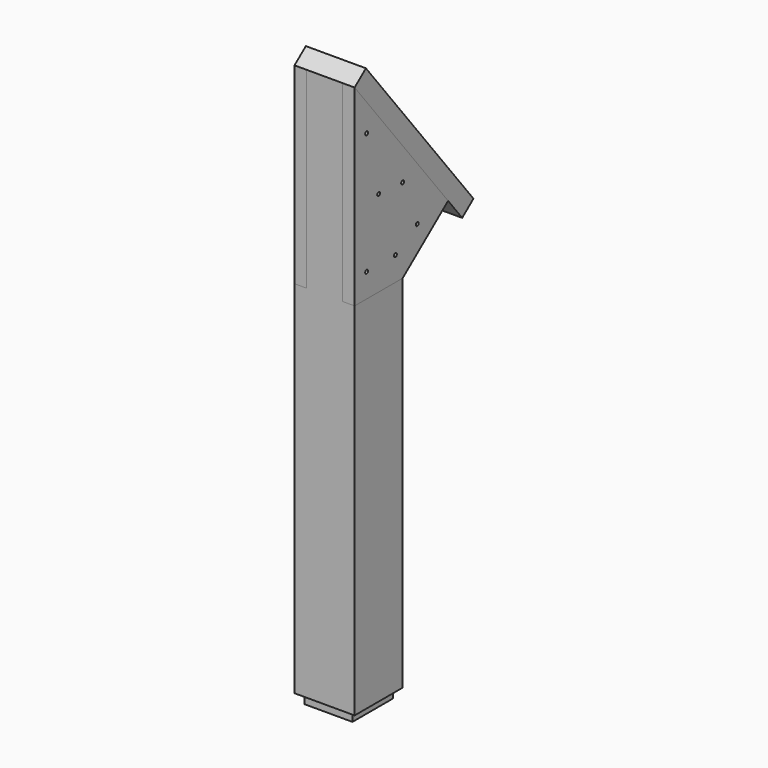
from build123d import *

# Parameters (mm, degrees)
F1_DEPTH  = 20
F2_DEPTH  = 25
F3_DEPTH  = 15
F5_DEPTH  = 30
F7_DEPTH  = 10
F9_DEPTH  = 10
F10_R     = 1.5
F11_DEPTH = 50.001
F12_W     = 30
F12_H     = 80.4300938704
F12_H_2   = 75.9790235959
F13_DEPTH = 15


with BuildPart() as f1:
    # F0 (on Right) → F1 (new body, symmetric)
    with BuildSketch(Plane.YZ):
        Polygon((21, 0), (0, 0), (-21, 0), (-21, -8), (0, -8), (21, -8), align=None)
    extrude(amount=F1_DEPTH, both=True)

    # F0 (on Right) → F2 (join, symmetric)
    with BuildSketch(Plane.YZ):
        Polygon((-21, 0), (0, 0), (21, 0), (25, 0), (25, 300), (-25, 300), (-25, 0), align=None)
    extrude(amount=F2_DEPTH, both=True)

    # F0 (on Right) → F3 (join, symmetric)
    with BuildSketch(Plane.YZ):
        Polygon((-25, 460), (-25, 300), (25, 300), (25, 397), align=None)
    extrude(amount=F3_DEPTH, both=True)


with BuildPart() as f5:
    # F4 (on face) → F5 (new body)
    with BuildSketch(Plane(origin=(-15, 0, 0), x_dir=(0, -1, 0), z_dir=(-1, 0, 0))):
        Polygon((-25, 300), (-25, 397), (-72.2329571804, 337.4864739527), align=None)
    extrude(amount=-F5_DEPTH)


with BuildPart() as f7:
    # F6 (on face) → F7 (new body)
    with BuildSketch(Plane(origin=(-25, 0, 0), x_dir=(0, -1, 0), z_dir=(-1, 0, 0))):
        Polygon((-25, 300), (25, 300), (25, 460), (-25, 397), (-72.2329571804, 337.4864739527), align=None)
    extrude(amount=-F7_DEPTH)


with BuildPart() as f9:
    # F8 (on face) → F9 (new body)
    with BuildSketch(Plane.YZ.offset(25)):
        Polygon((25, 397), (-25, 460), (-25, 300), (25, 300), (72.2329571804, 337.4864739527), align=None)
    extrude(amount=-F9_DEPTH)


with BuildPart() as f11_tool:
    # F10 (on face) → F11 (new body, through all)
    with BuildSketch(Plane(origin=(-25, 0, 0), x_dir=(0, -1, 0), z_dir=(-1, 0, 0))):
        with Locations((-40.192078799, 333.4782421589)):
            Circle(F10_R)
        with Locations((-17.5, 320)):
            Circle(F10_R)
        with Locations((12.5, 320)):
            Circle(F10_R)
        with Locations((0, 371.8319237232)):
            Circle(F10_R)
        with Locations((-24.9607171863, 370.1803386211)):
            Circle(F10_R)
        with Locations((12.5, 421.3922023773)):
            Circle(F10_R)
    extrude(amount=-F11_DEPTH)


with BuildPart() as f1_1:
    add(f1.part)

    # F11: cut by f11_tool
    add(f11_tool.part, mode=Mode.SUBTRACT)


with BuildPart() as f5_1:
    add(f5.part)

    # F11: cut by f11_tool
    add(f11_tool.part, mode=Mode.SUBTRACT)


with BuildPart() as f7_1:
    add(f7.part)

    # F11: cut by f11_tool
    add(f11_tool.part, mode=Mode.SUBTRACT)


with BuildPart() as f9_1:
    add(f9.part)

    # F11: cut by f11_tool
    add(f11_tool.part, mode=Mode.SUBTRACT)


with BuildPart() as f13:
    # F12 (on face) → F13 (new body)
    with BuildSketch(Plane(origin=(0, 208.6528056887, 165.5974648323), x_dir=(-1, 0, 0), z_dir=(0, 0.7832889031, 0.6216578596))):
        Polygon((-15, 375.8543418924), (-25, 375.8543418924), (-25, 219.4452244261), (-15, 219.4452244261), (-15, 295.424248022), align=None)
        Polygon((-15, 219.4452244261), (-25, 219.4452244261), (-25, 195.8543418924), (25, 195.8543418924), (25, 219.4452244261), (15, 219.4452244261), align=None)
        with Locations((0, 335.6392949572)):
            Rectangle(F12_W, F12_H)
        Polygon((25, 375.8543418924), (15, 375.8543418924), (15, 295.424248022), (15, 219.4452244261), (25, 219.4452244261), align=None)
        with Locations((0, 257.4347362241)):
            Rectangle(F12_W, F12_H_2)
    extrude(amount=F13_DEPTH)


solid = Compound([f1_1.part, f5_1.part, f7_1.part, f9_1.part, f13.part])
